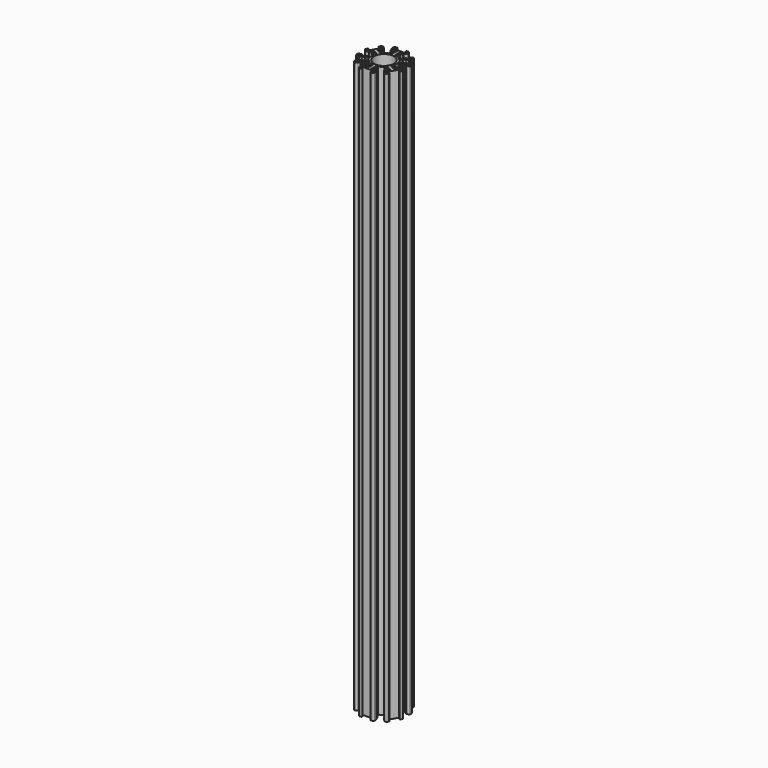
from build123d import *

# Parameters (mm, degrees)
F0_R     = 10.5
F1_DEPTH = 600
F2_R     = 1.5
F3_R     = 0.5
F4_R     = 0.5
F5_R     = 0.5


with BuildPart() as f1:
    # F0 (on Top) → F1 (new body)
    with BuildSketch(Plane.XY):
        with BuildLine():
            Line((-8, -19.109674), (-8, -23.909674))
            Line((-8, -23.909674), (-4.5, -23.909674))
            Line((-4.5, -23.909674), (-4.5, -22.609674))
            Line((-4.5, -22.609674), (-6.25, -22.609674))
            Line((-6.25, -22.609674), (-6.25, -20.609674))
            Line((-6.25, -20.609674), (6.25, -20.609674))
            Line((6.25, -20.609674), (6.25, -22.609674))
            Line((6.25, -22.609674), (4.5, -22.609674))
            Line((4.5, -22.609674), (4.5, -23.909674))
            Line((4.5, -23.909674), (8, -23.909674))
            Line((8, -23.909674), (8, -19.109674))
            Line((8, -19.109674), (1.5, -19.109674))
            Line((1.5, -19.109674), (1.5, -17.709674))
            Line((1.5, -17.709674), (6.5, -17.709674))
            Line((6.5, -17.709674), (6.5, -16.409674))
            Line((6.5, -16.409674), (1.5, -16.409674))
            Line((1.5, -16.409674), (1.5, -15.009674))
            Line((1.5, -15.009674), (5, -15.009674))
            Line((5, -15.009674), (5, -13.709674))
            Line((5, -13.709674), (1.5, -13.709674))
            Line((1.5, -13.709674), (1.5, -12.409674))
            ThreePointArc((1.5, -12.409674), (6.25, -10.825318), (9.997093, -7.503875))
            Line((9.997093, -7.503875), (11.122926, -8.153875))
            Line((11.122926, -8.153875), (9.372926, -11.184964))
            Line((9.372926, -11.184964), (10.498759, -11.834964))
            Line((10.498759, -11.834964), (12.248759, -8.803875))
            Line((12.248759, -8.803875), (13.461194, -9.503875))
            Line((13.461194, -9.503875), (10.961194, -13.834002))
            Line((10.961194, -13.834002), (12.087027, -14.484002))
            Line((12.087027, -14.484002), (14.587027, -10.153875))
            Line((14.587027, -10.153875), (15.799463, -10.853875))
            Line((15.799463, -10.853875), (12.549463, -16.48304))
            Line((12.549463, -16.48304), (16.706385, -18.88304))
            Line((16.706385, -18.88304), (18.456385, -15.851951))
            Line((18.456385, -15.851951), (17.330552, -15.201951))
            Line((17.330552, -15.201951), (16.455552, -16.717496))
            Line((16.455552, -16.717496), (14.723501, -15.717496))
            Line((14.723501, -15.717496), (20.973501, -4.892178))
            Line((20.973501, -4.892178), (22.705552, -5.892178))
            Line((22.705552, -5.892178), (21.830552, -7.407723))
            Line((21.830552, -7.407723), (22.956385, -8.057723))
            Line((22.956385, -8.057723), (24.706385, -5.026634))
            Line((24.706385, -5.026634), (20.549463, -2.626634))
            Line((20.549463, -2.626634), (17.299463, -8.255799))
            Line((17.299463, -8.255799), (16.087027, -7.555799))
            Line((16.087027, -7.555799), (18.587027, -3.225672))
            Line((18.587027, -3.225672), (17.461194, -2.575672))
            Line((17.461194, -2.575672), (14.961194, -6.905799))
            Line((14.961194, -6.905799), (13.748759, -6.205799))
            Line((13.748759, -6.205799), (15.498759, -3.17471))
            Line((15.498759, -3.17471), (14.372926, -2.52471))
            Line((14.372926, -2.52471), (12.622926, -5.555799))
            Line((12.622926, -5.555799), (11.497093, -4.905799))
            ThreePointArc((11.497093, -4.905799), (12.5, 0), (11.497093, 4.905799))
            Line((11.497093, 4.905799), (12.622926, 5.555799))
            Line((12.622926, 5.555799), (14.372926, 2.52471))
            Line((14.372926, 2.52471), (15.498759, 3.17471))
            Line((15.498759, 3.17471), (13.748759, 6.205799))
            Line((13.748759, 6.205799), (14.961194, 6.905799))
            Line((14.961194, 6.905799), (17.461194, 2.575672))
            Line((17.461194, 2.575672), (18.587027, 3.225672))
            Line((18.587027, 3.225672), (16.087027, 7.555799))
            Line((16.087027, 7.555799), (17.299463, 8.255799))
            Line((17.299463, 8.255799), (20.549463, 2.626634))
            Line((20.549463, 2.626634), (24.706385, 5.026634))
            Line((24.706385, 5.026634), (22.956385, 8.057723))
            Line((22.956385, 8.057723), (21.830552, 7.407723))
            Line((21.830552, 7.407723), (22.705552, 5.892178))
            Line((22.705552, 5.892178), (20.973501, 4.892178))
            Line((20.973501, 4.892178), (14.723501, 15.717496))
            Line((14.723501, 15.717496), (16.455552, 16.717496))
            Line((16.455552, 16.717496), (17.330552, 15.201951))
            Line((17.330552, 15.201951), (18.456385, 15.851951))
            Line((18.456385, 15.851951), (16.706385, 18.88304))
            Line((16.706385, 18.88304), (12.549463, 16.48304))
            Line((12.549463, 16.48304), (15.799463, 10.853875))
            Line((15.799463, 10.853875), (14.587027, 10.153875))
            Line((14.587027, 10.153875), (12.087027, 14.484002))
            Line((12.087027, 14.484002), (10.961194, 13.834002))
            Line((10.961194, 13.834002), (13.461194, 9.503875))
            Line((13.461194, 9.503875), (12.248759, 8.803875))
            Line((12.248759, 8.803875), (10.498759, 11.834964))
            Line((10.498759, 11.834964), (9.372926, 11.184964))
            Line((9.372926, 11.184964), (11.122926, 8.153875))
            Line((11.122926, 8.153875), (9.997093, 7.503875))
            ThreePointArc((9.997093, 7.503875), (6.25, 10.825318), (1.5, 12.409674))
            Line((1.5, 12.409674), (1.5, 13.709674))
            Line((1.5, 13.709674), (5, 13.709674))
            Line((5, 13.709674), (5, 15.009674))
            Line((5, 15.009674), (1.5, 15.009674))
            Line((1.5, 15.009674), (1.5, 16.409674))
            Line((1.5, 16.409674), (6.5, 16.409674))
            Line((6.5, 16.409674), (6.5, 17.709674))
            Line((6.5, 17.709674), (1.5, 17.709674))
            Line((1.5, 17.709674), (1.5, 19.109674))
            Line((1.5, 19.109674), (8, 19.109674))
            Line((8, 19.109674), (8, 23.909674))
            Line((8, 23.909674), (4.5, 23.909674))
            Line((4.5, 23.909674), (4.5, 22.609674))
            Line((4.5, 22.609674), (6.25, 22.609674))
            Line((6.25, 22.609674), (6.25, 20.609674))
            Line((6.25, 20.609674), (-6.25, 20.609674))
            Line((-6.25, 20.609674), (-6.25, 22.609674))
            Line((-6.25, 22.609674), (-4.5, 22.609674))
            Line((-4.5, 22.609674), (-4.5, 23.909674))
            Line((-4.5, 23.909674), (-8, 23.909674))
            Line((-8, 23.909674), (-8, 19.109674))
            Line((-8, 19.109674), (-1.5, 19.109674))
            Line((-1.5, 19.109674), (-1.5, 17.709674))
            Line((-1.5, 17.709674), (-6.5, 17.709674))
            Line((-6.5, 17.709674), (-6.5, 16.409674))
            Line((-6.5, 16.409674), (-1.5, 16.409674))
            Line((-1.5, 16.409674), (-1.5, 15.009674))
            Line((-1.5, 15.009674), (-5, 15.009674))
            Line((-5, 15.009674), (-5, 13.709674))
            Line((-5, 13.709674), (-1.5, 13.709674))
            Line((-1.5, 13.709674), (-1.5, 12.409674))
            ThreePointArc((-1.5, 12.409674), (-6.25, 10.825318), (-9.997093, 7.503875))
            Line((-9.997093, 7.503875), (-11.122926, 8.153875))
            Line((-11.122926, 8.153875), (-9.372926, 11.184964))
            Line((-9.372926, 11.184964), (-10.498759, 11.834964))
            Line((-10.498759, 11.834964), (-12.248759, 8.803875))
            Line((-12.248759, 8.803875), (-13.461194, 9.503875))
            Line((-13.461194, 9.503875), (-10.961194, 13.834002))
            Line((-10.961194, 13.834002), (-12.087027, 14.484002))
            Line((-12.087027, 14.484002), (-14.587027, 10.153875))
            Line((-14.587027, 10.153875), (-15.799463, 10.853875))
            Line((-15.799463, 10.853875), (-12.549463, 16.48304))
            Line((-12.549463, 16.48304), (-16.706385, 18.88304))
            Line((-16.706385, 18.88304), (-18.456385, 15.851951))
            Line((-18.456385, 15.851951), (-17.330552, 15.201951))
            Line((-17.330552, 15.201951), (-16.455552, 16.717496))
            Line((-16.455552, 16.717496), (-14.723501, 15.717496))
            Line((-14.723501, 15.717496), (-20.973501, 4.892178))
            Line((-20.973501, 4.892178), (-22.705552, 5.892178))
            Line((-22.705552, 5.892178), (-21.830552, 7.407723))
            Line((-21.830552, 7.407723), (-22.956385, 8.057723))
            Line((-22.956385, 8.057723), (-24.706385, 5.026634))
            Line((-24.706385, 5.026634), (-20.549463, 2.626634))
            Line((-20.549463, 2.626634), (-17.299463, 8.255799))
            Line((-17.299463, 8.255799), (-16.087027, 7.555799))
            Line((-16.087027, 7.555799), (-18.587027, 3.225672))
            Line((-18.587027, 3.225672), (-17.461194, 2.575672))
            Line((-17.461194, 2.575672), (-14.961194, 6.905799))
            Line((-14.961194, 6.905799), (-13.748759, 6.205799))
            Line((-13.748759, 6.205799), (-15.498759, 3.17471))
            Line((-15.498759, 3.17471), (-14.372926, 2.52471))
            Line((-14.372926, 2.52471), (-12.622926, 5.555799))
            Line((-12.622926, 5.555799), (-11.497093, 4.905799))
            ThreePointArc((-11.497093, 4.905799), (-12.5, 0), (-11.497093, -4.905799))
            Line((-11.497093, -4.905799), (-12.622926, -5.555799))
            Line((-12.622926, -5.555799), (-14.372926, -2.52471))
            Line((-14.372926, -2.52471), (-15.498759, -3.17471))
            Line((-15.498759, -3.17471), (-13.748759, -6.205799))
            Line((-13.748759, -6.205799), (-14.961194, -6.905799))
            Line((-14.961194, -6.905799), (-17.461194, -2.575672))
            Line((-17.461194, -2.575672), (-18.587027, -3.225672))
            Line((-18.587027, -3.225672), (-16.087027, -7.555799))
            Line((-16.087027, -7.555799), (-17.299463, -8.255799))
            Line((-17.299463, -8.255799), (-20.549463, -2.626634))
            Line((-20.549463, -2.626634), (-24.706385, -5.026634))
            Line((-24.706385, -5.026634), (-22.956385, -8.057723))
            Line((-22.956385, -8.057723), (-21.830552, -7.407723))
            Line((-21.830552, -7.407723), (-22.705552, -5.892178))
            Line((-22.705552, -5.892178), (-20.973501, -4.892178))
            Line((-20.973501, -4.892178), (-14.723501, -15.717496))
            Line((-14.723501, -15.717496), (-16.455552, -16.717496))
            Line((-16.455552, -16.717496), (-17.330552, -15.201951))
            Line((-17.330552, -15.201951), (-18.456385, -15.851951))
            Line((-18.456385, -15.851951), (-16.706385, -18.88304))
            Line((-16.706385, -18.88304), (-12.549463, -16.48304))
            Line((-12.549463, -16.48304), (-15.799463, -10.853875))
            Line((-15.799463, -10.853875), (-14.587027, -10.153875))
            Line((-14.587027, -10.153875), (-12.087027, -14.484002))
            Line((-12.087027, -14.484002), (-10.961194, -13.834002))
            Line((-10.961194, -13.834002), (-13.461194, -9.503875))
            Line((-13.461194, -9.503875), (-12.248759, -8.803875))
            Line((-12.248759, -8.803875), (-10.498759, -11.834964))
            Line((-10.498759, -11.834964), (-9.372926, -11.184964))
            Line((-9.372926, -11.184964), (-11.122926, -8.153875))
            Line((-11.122926, -8.153875), (-9.997093, -7.503875))
            ThreePointArc((-9.997093, -7.503875), (-6.25, -10.825318), (-1.5, -12.409674))
            Line((-1.5, -12.409674), (-1.5, -13.709674))
            Line((-1.5, -13.709674), (-5, -13.709674))
            Line((-5, -13.709674), (-5, -15.009674))
            Line((-5, -15.009674), (-1.5, -15.009674))
            Line((-1.5, -15.009674), (-1.5, -16.409674))
            Line((-1.5, -16.409674), (-6.5, -16.409674))
            Line((-6.5, -16.409674), (-6.5, -17.709674))
            Line((-6.5, -17.709674), (-1.5, -17.709674))
            Line((-1.5, -17.709674), (-1.5, -19.109674))
            Line((-1.5, -19.109674), (-8, -19.109674))
        make_face()
        Circle(F0_R, mode=Mode.SUBTRACT)
    extrude(amount=F1_DEPTH)

    # F2
    f2_edges = [f1.edges().sort_by_distance(p)[0] for p in [
        (-8, 23.909674, 300),
        (8, 23.909674, 300),
        (8, 19.109674, 300),
        (-8, 19.109674, 300),
        (12.549463, 16.48304, 300),
        (20.549463, 2.626634, 300),
        (24.706385, 5.026634, 300),
        (16.706385, 18.88304, 300),
        (20.549463, -2.626634, 300),
        (24.706385, -5.026634, 300),
        (12.549463, -16.48304, 300),
        (16.706385, -18.88304, 300),
        (8, -23.909674, 300),
        (8, -19.109674, 300),
        (-8, -19.109674, 300),
        (-8, -23.909674, 300),
        (-12.549463, -16.48304, 300),
        (-16.706385, -18.88304, 300),
        (-20.549463, -2.626634, 300),
        (-24.706385, -5.026634, 300),
        (-20.549463, 2.626634, 300),
        (-24.706385, 5.026634, 300),
        (-12.549463, 16.48304, 300),
        (-16.706385, 18.88304, 300),
    ]]
    fillet(f2_edges, radius=F2_R)

    # F3
    f3_edges = [f1.edges().sort_by_distance(p)[0] for p in [
        (4.5, 23.909674, 300),
        (-4.5, 23.909674, 300),
        (-6.5, 17.709674, 300),
        (-6.5, 16.409674, 300),
        (-5, 15.009674, 300),
        (-5, 13.709674, 300),
        (6.5, 17.709674, 300),
        (6.5, 16.409674, 300),
        (5, 15.009674, 300),
        (5, 13.709674, 300),
        (-18.456385, 15.851951, 300),
        (-22.956385, 8.057723, 300),
        (-18.587027, 3.225672, 300),
        (-17.461194, 2.575672, 300),
        (-15.498759, 3.17471, 300),
        (-14.372926, 2.52471, 300),
        (-10.498759, 11.834964, 300),
        (-12.087027, 14.484002, 300),
        (-10.961194, 13.834002, 300),
        (-9.372926, 11.184964, 300),
        (-22.956385, -8.057723, 300),
        (-18.587027, -3.225672, 300),
        (-17.461194, -2.575672, 300),
        (-15.498759, -3.17471, 300),
        (-14.372926, -2.52471, 300),
        (-10.498759, -11.834964, 300),
        (-9.372926, -11.184964, 300),
        (-10.961194, -13.834002, 300),
        (-12.087027, -14.484002, 300),
        (-18.456385, -15.851951, 300),
        (-6.5, -17.709674, 300),
        (-6.5, -16.409674, 300),
        (-5, -15.009674, 300),
        (-5, -13.709674, 300),
        (-4.5, -23.909674, 300),
        (4.5, -23.909674, 300),
        (6.5, -17.709674, 300),
        (6.5, -16.409674, 300),
        (5, -15.009674, 300),
        (5, -13.709674, 300),
        (12.087027, -14.484002, 300),
        (10.961194, -13.834002, 300),
        (9.372926, -11.184964, 300),
        (10.498759, -11.834964, 300),
        (18.456385, -15.851951, 300),
        (22.956385, -8.057723, 300),
        (18.587027, -3.225672, 300),
        (15.498759, -3.17471, 300),
        (17.461194, -2.575672, 300),
        (14.372926, -2.52471, 300),
        (17.461194, 2.575672, 300),
        (18.587027, 3.225672, 300),
        (15.498759, 3.17471, 300),
        (14.372926, 2.52471, 300),
        (9.372926, 11.184964, 300),
        (10.961194, 13.834002, 300),
        (18.456385, 15.851951, 300),
        (22.956385, 8.057723, 300),
        (12.087027, 14.484002, 300),
        (10.498759, 11.834964, 300),
    ]]
    fillet(f3_edges, radius=F3_R)

    # F4
    f4_edges = [f1.edges().sort_by_distance(p)[0] for p in [
        (15.799463, -10.853875, 300),
        (17.299463, -8.255799, 300),
        (-1.5, -19.109674, 300),
        (1.5, -19.109674, 300),
        (-15.799463, -10.853875, 300),
        (-17.299463, -8.255799, 300),
        (-17.299463, 8.255799, 300),
        (-15.799463, 10.853875, 300),
        (-1.5, 19.109674, 300),
        (1.5, 19.109674, 300),
        (15.799463, 10.853875, 300),
        (17.299463, 8.255799, 300),
    ]]
    fillet(f4_edges, radius=F4_R)

    # F5
    f5_edges = [f1.edges().sort_by_distance(p)[0] for p in [
        (11.497093, -4.905799, 300),
        (9.997093, -7.503875, 300),
        (11.497093, 4.905799, 300),
        (9.997093, 7.503875, 300),
        (1.5, 12.409674, 300),
        (-1.5, 12.409674, 300),
        (-9.997093, 7.503875, 300),
        (-11.497093, 4.905799, 300),
        (-11.497093, -4.905799, 300),
        (-9.997093, -7.503875, 300),
        (-1.5, -12.409674, 300),
        (1.5, -12.409674, 300),
    ]]
    fillet(f5_edges, radius=F5_R)


solid = f1.part
